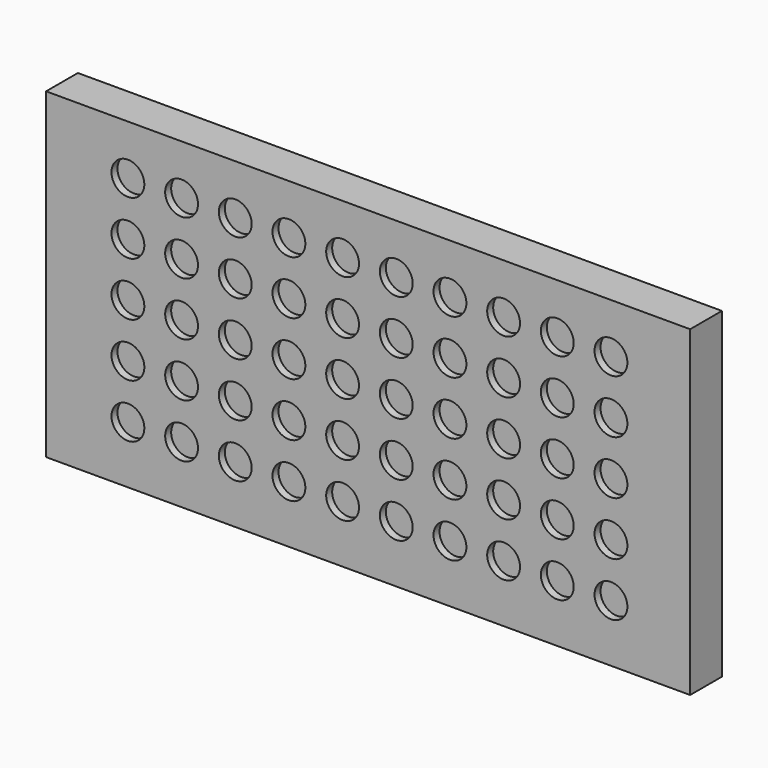
from build123d import *

# Parameters (mm, degrees)
F0_W     = 300
F0_H     = 150
F0_R     = 7.65
F1_DEPTH = 3.5
F2_W     = 300
F2_H     = 150
F3_DEPTH = 15


with BuildPart() as f1:
    # F0 (on Front) → F1 (new body)
    with BuildSketch(Plane.XZ):
        with Locations((-180.280095, 78.015107)):
            Rectangle(F0_W, F0_H)
        with Locations((-292.164981, 29.736487)):
            Circle(F0_R, mode=Mode.SUBTRACT)
        with Locations((-267.164981, 29.736487)):
            Circle(F0_R, mode=Mode.SUBTRACT)
        with Locations((-242.164981, 29.736487)):
            Circle(F0_R, mode=Mode.SUBTRACT)
        with Locations((-217.164981, 29.736487)):
            Circle(F0_R, mode=Mode.SUBTRACT)
        with Locations((-192.164981, 29.736487)):
            Circle(F0_R, mode=Mode.SUBTRACT)
        with Locations((-292.164981, 54.736487)):
            Circle(F0_R, mode=Mode.SUBTRACT)
        with Locations((-267.164981, 54.736487)):
            Circle(F0_R, mode=Mode.SUBTRACT)
        with Locations((-242.164981, 54.736487)):
            Circle(F0_R, mode=Mode.SUBTRACT)
        with Locations((-217.164981, 54.736487)):
            Circle(F0_R, mode=Mode.SUBTRACT)
        with Locations((-192.164981, 54.736487)):
            Circle(F0_R, mode=Mode.SUBTRACT)
        with Locations((-167.164981, 29.736487)):
            Circle(F0_R, mode=Mode.SUBTRACT)
        with Locations((-142.164981, 29.736487)):
            Circle(F0_R, mode=Mode.SUBTRACT)
        with Locations((-117.164981, 29.736487)):
            Circle(F0_R, mode=Mode.SUBTRACT)
        with Locations((-92.164981, 29.736487)):
            Circle(F0_R, mode=Mode.SUBTRACT)
        with Locations((-67.164981, 29.736487)):
            Circle(F0_R, mode=Mode.SUBTRACT)
        with Locations((-167.164981, 54.736487)):
            Circle(F0_R, mode=Mode.SUBTRACT)
        with Locations((-142.164981, 54.736487)):
            Circle(F0_R, mode=Mode.SUBTRACT)
        with Locations((-117.164981, 54.736487)):
            Circle(F0_R, mode=Mode.SUBTRACT)
        with Locations((-92.164981, 54.736487)):
            Circle(F0_R, mode=Mode.SUBTRACT)
        with Locations((-67.164981, 54.736487)):
            Circle(F0_R, mode=Mode.SUBTRACT)
        with Locations((-292.164981, 79.736487)):
            Circle(F0_R, mode=Mode.SUBTRACT)
        with Locations((-267.164981, 79.736487)):
            Circle(F0_R, mode=Mode.SUBTRACT)
        with Locations((-292.164981, 104.736487)):
            Circle(F0_R, mode=Mode.SUBTRACT)
        with Locations((-267.164981, 104.736487)):
            Circle(F0_R, mode=Mode.SUBTRACT)
        with Locations((-242.164981, 79.736487)):
            Circle(F0_R, mode=Mode.SUBTRACT)
        with Locations((-217.164981, 79.736487)):
            Circle(F0_R, mode=Mode.SUBTRACT)
        with Locations((-192.164981, 79.736487)):
            Circle(F0_R, mode=Mode.SUBTRACT)
        with Locations((-242.164981, 104.736487)):
            Circle(F0_R, mode=Mode.SUBTRACT)
        with Locations((-217.164981, 104.736487)):
            Circle(F0_R, mode=Mode.SUBTRACT)
        with Locations((-192.164981, 104.736487)):
            Circle(F0_R, mode=Mode.SUBTRACT)
        with Locations((-292.164981, 129.736487)):
            Circle(F0_R, mode=Mode.SUBTRACT)
        with Locations((-267.164981, 129.736487)):
            Circle(F0_R, mode=Mode.SUBTRACT)
        with Locations((-242.164981, 129.736487)):
            Circle(F0_R, mode=Mode.SUBTRACT)
        with Locations((-217.164981, 129.736487)):
            Circle(F0_R, mode=Mode.SUBTRACT)
        with Locations((-192.164981, 129.736487)):
            Circle(F0_R, mode=Mode.SUBTRACT)
        with Locations((-167.164981, 79.736487)):
            Circle(F0_R, mode=Mode.SUBTRACT)
        with Locations((-142.164981, 79.736487)):
            Circle(F0_R, mode=Mode.SUBTRACT)
        with Locations((-117.164981, 79.736487)):
            Circle(F0_R, mode=Mode.SUBTRACT)
        with Locations((-167.164981, 104.736487)):
            Circle(F0_R, mode=Mode.SUBTRACT)
        with Locations((-142.164981, 104.736487)):
            Circle(F0_R, mode=Mode.SUBTRACT)
        with Locations((-117.164981, 104.736487)):
            Circle(F0_R, mode=Mode.SUBTRACT)
        with Locations((-92.164981, 79.736487)):
            Circle(F0_R, mode=Mode.SUBTRACT)
        with Locations((-67.164981, 79.736487)):
            Circle(F0_R, mode=Mode.SUBTRACT)
        with Locations((-92.164981, 104.736487)):
            Circle(F0_R, mode=Mode.SUBTRACT)
        with Locations((-67.164981, 104.736487)):
            Circle(F0_R, mode=Mode.SUBTRACT)
        with Locations((-167.164981, 129.736487)):
            Circle(F0_R, mode=Mode.SUBTRACT)
        with Locations((-142.164981, 129.736487)):
            Circle(F0_R, mode=Mode.SUBTRACT)
        with Locations((-117.164981, 129.736487)):
            Circle(F0_R, mode=Mode.SUBTRACT)
        with Locations((-92.164981, 129.736487)):
            Circle(F0_R, mode=Mode.SUBTRACT)
        with Locations((-67.164981, 129.736487)):
            Circle(F0_R, mode=Mode.SUBTRACT)
    extrude(amount=F1_DEPTH)

    # F2 (on Front) → F3 (join)
    with BuildSketch(Plane.XZ):
        with Locations((-180.280095, 78.015107)):
            Rectangle(F2_W, F2_H)
    extrude(amount=-F3_DEPTH)


solid = f1.part
